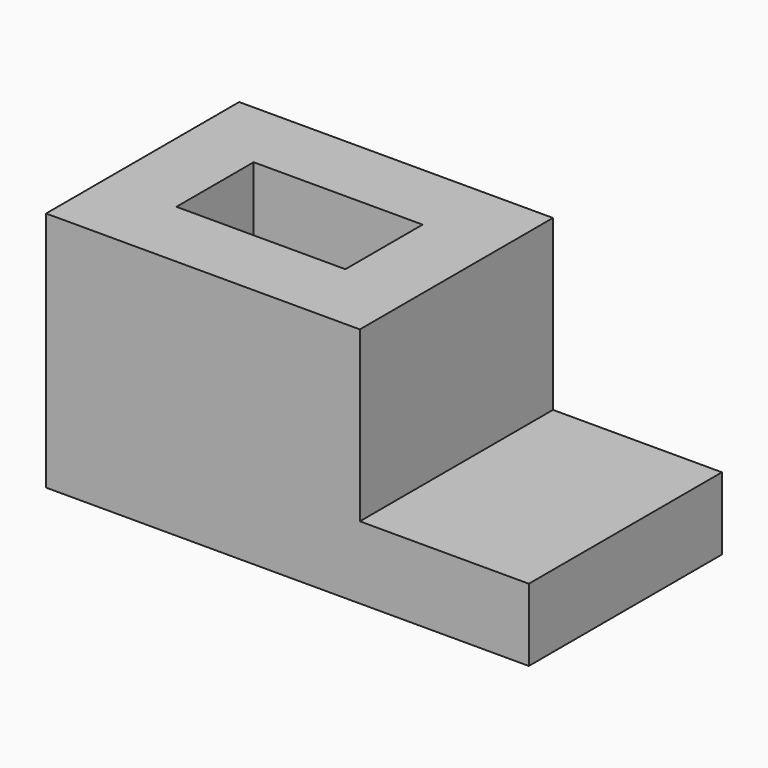
from build123d import *

# Parameters (mm, degrees)
F1_DEPTH = 63.5
F2_W     = 44.45
F2_H     = 25.4
F3_DEPTH = 63.5


with BuildPart() as f1:
    # F0 (on Front) → F1 (new body)
    with BuildSketch(Plane.XZ):
        Polygon((-41.275, 31.75), (-41.275, -31.75), (41.275, -31.75), (85.725, -31.75), (85.725, -12.7), (41.275, -12.7), (41.275, 31.75), align=None)
    extrude(amount=F1_DEPTH)

    # F2 (on face) → F3 (cut)
    with BuildSketch(Plane.XY.offset(31.75)):
        with Locations((0, -31.75)):
            Rectangle(F2_W, F2_H)
    extrude(amount=-F3_DEPTH, mode=Mode.SUBTRACT)


solid = f1.part
